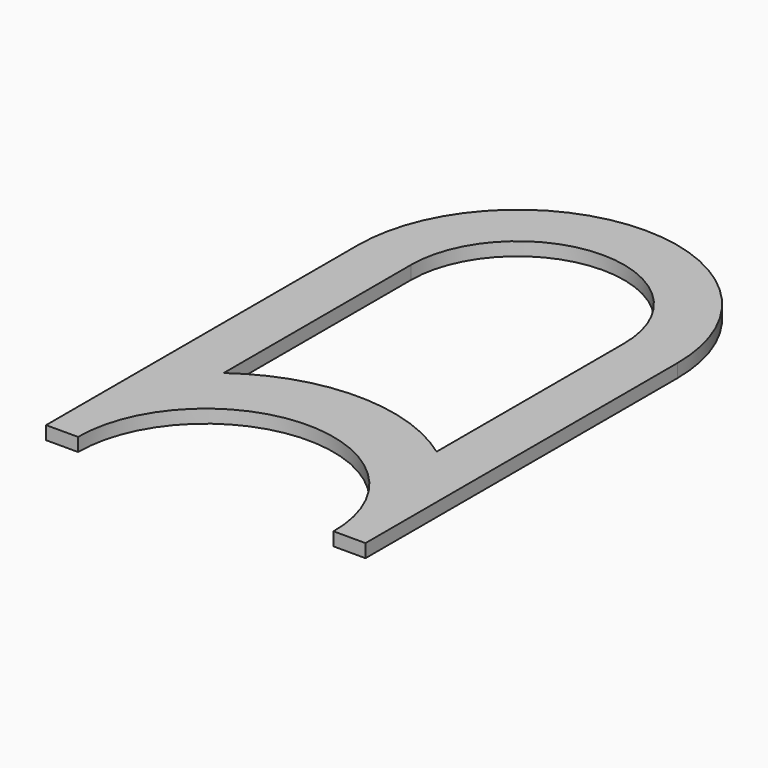
from build123d import *

# Parameters (mm, degrees)
F1_DEPTH = 25


with BuildPart() as f1:
    # F0 (on Top) → F1 (new body)
    with BuildSketch(Plane.XY):
        with BuildLine():
            Line((-300, 440.210253), (-300, -291.922041))
            Line((-300, -291.922041), (-240, -291.922041))
            ThreePointArc((-240, -291.922041), (0, -51.922041), (240, -291.922041))
            Line((240, -291.922041), (300, -291.922041))
            Line((300, -291.922041), (300, 440.210253))
            ThreePointArc((300, 440.210253), (0, 740.210253), (-300, 440.210253))
        make_face()
        with BuildLine():
            ThreePointArc((200, 0), (0, 65.045458), (-200, 0))
            Line((-200, 0), (-200, 440.210253))
            ThreePointArc((-200, 440.210253), (0, 640.210253), (200, 440.210253))
            Line((200, 440.210253), (200, 0))
        make_face(mode=Mode.SUBTRACT)
    extrude(amount=F1_DEPTH)


solid = f1.part
